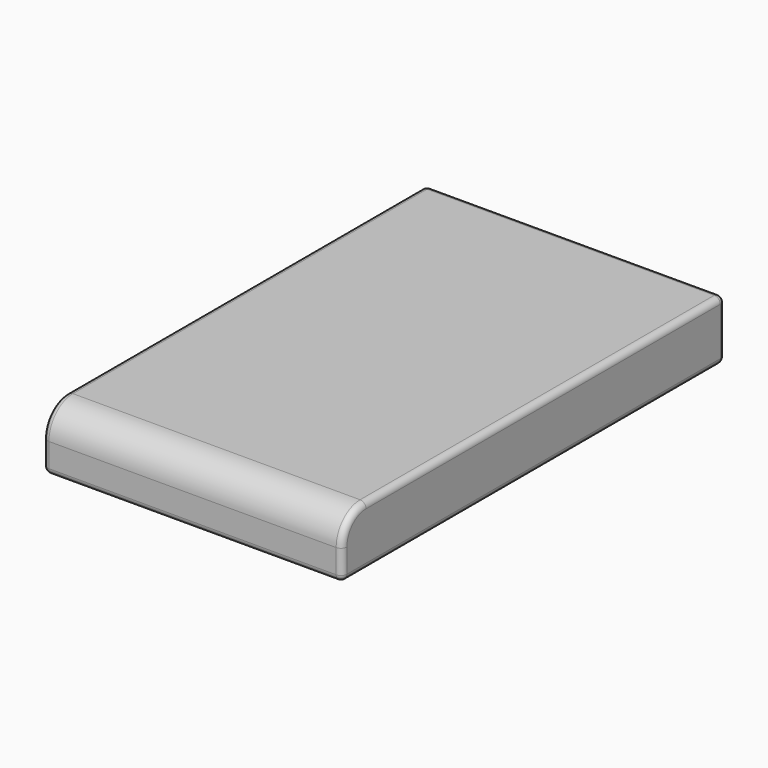
from build123d import *

# Parameters (mm, degrees)
F0_W     = 127
F0_H     = 203.2
F1_DEPTH = 25.4
F2_R     = 12.7
F3_R     = 2.54


with BuildPart() as f1:
    # F0 (on Top) → F1 (new body)
    with BuildSketch(Plane.XY):
        Rectangle(F0_W, F0_H)
    extrude(amount=F1_DEPTH)

    # F2
    f2_edges = [f1.edges().sort_by_distance(p)[0] for p in [
        (0, -101.6, 25.4),
    ]]
    fillet(f2_edges, radius=F2_R)

    # F3
    f3_edges = [f1.edges().sort_by_distance(p)[0] for p in [
        (63.5, 6.35, 25.4),
        (63.5, 0, 0),
        (0, -101.6, 0),
        (63.5, 101.6, 12.7),
        (0, 101.6, 25.4),
        (0, 101.6, 0),
        (-63.5, 101.6, 12.7),
        (-63.5, 6.35, 25.4),
        (-63.5, 0, 0),
    ]]
    fillet(f3_edges, radius=F3_R)


solid = f1.part
